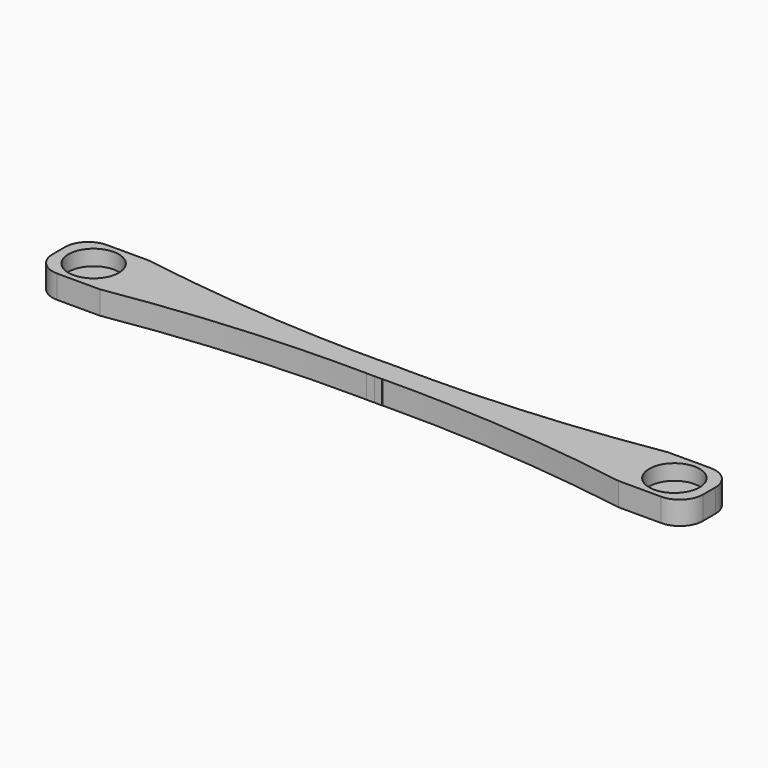
from build123d import *

# Parameters (mm, degrees)
BOX126_W                          = 90
BOX126_H                          = 9
BOX126_DEPTH                      = 4
BOX125_W                          = 40
BOX125_H                          = 10
BOX125_DEPTH                      = 10
CYLINDER211_R                     = 3.25
CYLINDER211_DEPTH                 = 3.5
CYLINDER212_R                     = 0.6
CYLINDER212_DEPTH                 = 9.5
CYLINDER210_R                     = 0.6
CYLINDER210_DEPTH                 = 9.5
CYLINDER209_R                     = 3.25
CYLINDER209_DEPTH                 = 3.5
PAD016_DEPTH                      = 4
FILLET087_R                       = 3
PART_MIRRORING004_PLACEMENT_ANGLE = 180
BOX123_W                          = 40
BOX123_H                          = 10
BOX123_DEPTH                      = 10
CYLINDER205_R                     = 3.25
CYLINDER205_DEPTH                 = 3.5
CYLINDER208_R                     = 0.6
CYLINDER208_DEPTH                 = 9.5
CYLINDER206_R                     = 0.6
CYLINDER206_DEPTH                 = 9.5
CYLINDER207_R                     = 3.25
CYLINDER207_DEPTH                 = 3.5
PAD017_DEPTH                      = 4
FILLET086_R                       = 3


with BuildPart() as obj1:
    # Box126 → Box126 (new body)
    with BuildSketch(Plane(origin=(-63, -27.5, -41), x_dir=(1, 0, 0), z_dir=(0, 0, 1))):
        with Locations((45, 4.5)):
            Rectangle(BOX126_W, BOX126_H)
    extrude(amount=BOX126_DEPTH)


with BuildPart() as obj2:
    # Box125 → Box125 (new body)
    with BuildSketch(Plane(origin=(-14, -72, -42), x_dir=(1, 0, 0), z_dir=(0, 0, 1))):
        with Locations((20, 5)):
            Rectangle(BOX125_W, BOX125_H)
    extrude(amount=BOX125_DEPTH)


with BuildPart() as zylinder211:
    # Cylinder211 → Cylinder211 (new body)
    with BuildSketch(Plane(origin=(-52.5, 23, -36), x_dir=(1, 0, 0), z_dir=(0, 0, 1))):
        Circle(CYLINDER211_R)
    extrude(amount=CYLINDER211_DEPTH)


with BuildPart() as zylinder212:
    # Cylinder212 → Cylinder212 (new body)
    with BuildSketch(Plane(origin=(16.5, 23, -39), x_dir=(1, 0, 0), z_dir=(0, 0, 1))):
        Circle(CYLINDER212_R)
    extrude(amount=CYLINDER212_DEPTH)


with BuildPart() as zylinder210:
    # Cylinder210 → Cylinder210 (new body)
    with BuildSketch(Plane(origin=(-52.5, 23, -39), x_dir=(1, 0, 0), z_dir=(0, 0, 1))):
        Circle(CYLINDER210_R)
    extrude(amount=CYLINDER210_DEPTH)


with BuildPart() as fusion135:
    # Cylinder209 → Cylinder209 (new body)
    with BuildSketch(Plane(origin=(16.5, 23, -36), x_dir=(1, 0, 0), z_dir=(0, 0, 1))):
        Circle(CYLINDER209_R)
    extrude(amount=CYLINDER209_DEPTH)

    # Fusion135: union Zylinder211, Zylinder212, Zylinder210
    add(zylinder211.part)
    add(zylinder212.part)
    add(zylinder210.part)


with BuildPart() as cut090:
    # Sketch017 → Pad016 (new body)
    with BuildSketch(Plane.XY):
        with BuildLine():
            add(Edge.make_bspline(
                [(-48.5, 19), (-18, 24), (12.5, 19)],
                knots=[0, 0, 0, 1, 1, 1], degree=2))
            Line((-48.5, 19), (-57, 19))
            Line((-57, 19), (-57, 27))
            Line((-57, 27), (-48.5, 27))
            add(Edge.make_bspline(
                [(-48.5, 27), (-18, 22), (12.5, 27)],
                knots=[0, 0, 0, 1, 1, 1], degree=2))
            Line((12.5, 27), (21, 27))
            Line((21, 27), (21, 19))
            Line((21, 19), (12.5, 19))
        make_face()
    extrude(amount=PAD016_DEPTH)


with BuildPart() as cut090_1:
    # Body007 placement: moved
    add(cut090.part.moved(Location((0, 0, -38))))

    # Cut088: cut Fusion135
    add(fusion135.part, mode=Mode.SUBTRACT)

    # Fillet087
    fillet087_edges = [cut090_1.edges().sort_by_distance(p)[0] for p in [
        (-57, 19, -36),
        (21, 19, -36),
        (-57, 27, -36),
        (21, 27, -36),
    ]]
    fillet(fillet087_edges, radius=FILLET087_R)


with BuildPart() as cut090_2:
    # Fillet087 placement: moved
    add(cut090_1.part.moved(Location((0, -90, 0))))

    # Cut090: cut obj2
    add(obj2.part, mode=Mode.SUBTRACT)


with BuildPart() as cut090_3:
    # Cut090 placement: moved
    add(cut090_2.part.moved(Location((-5, 35, 0))))


with BuildPart() as part_mirroring004:
    # Part__Mirroring004: instance of Cut090
    add(cut090_3.part.mirror(Plane(origin=(-40.5, -8e-06, -36), x_dir=(1, 0, 0), z_dir=(0, 1, 0))))


with BuildPart() as part_mirroring004_1:
    # Part__Mirroring004 placement: moved
    add(part_mirroring004.part.moved(Location((-38, 9, 0))).rotate(Axis((-38, 9, 0), (0, 0, 1)), PART_MIRRORING004_PLACEMENT_ANGLE))


with BuildPart() as obj3:
    # Box123 → Box123 (new body)
    with BuildSketch(Plane(origin=(-14, -72, -42), x_dir=(1, 0, 0), z_dir=(0, 0, 1))):
        with Locations((20, 5)):
            Rectangle(BOX123_W, BOX123_H)
    extrude(amount=BOX123_DEPTH)


with BuildPart() as zylinder205:
    # Cylinder205 → Cylinder205 (new body)
    with BuildSketch(Plane(origin=(-52.5, 23, -36), x_dir=(1, 0, 0), z_dir=(0, 0, 1))):
        Circle(CYLINDER205_R)
    extrude(amount=CYLINDER205_DEPTH)


with BuildPart() as zylinder208:
    # Cylinder208 → Cylinder208 (new body)
    with BuildSketch(Plane(origin=(16.5, 23, -39), x_dir=(1, 0, 0), z_dir=(0, 0, 1))):
        Circle(CYLINDER208_R)
    extrude(amount=CYLINDER208_DEPTH)


with BuildPart() as zylinder206:
    # Cylinder206 → Cylinder206 (new body)
    with BuildSketch(Plane(origin=(-52.5, 23, -39), x_dir=(1, 0, 0), z_dir=(0, 0, 1))):
        Circle(CYLINDER206_R)
    extrude(amount=CYLINDER206_DEPTH)


with BuildPart() as fusion134:
    # Cylinder207 → Cylinder207 (new body)
    with BuildSketch(Plane(origin=(16.5, 23, -36), x_dir=(1, 0, 0), z_dir=(0, 0, 1))):
        Circle(CYLINDER207_R)
    extrude(amount=CYLINDER207_DEPTH)

    # Fusion134: union Zylinder205, Zylinder208, Zylinder206
    add(zylinder205.part)
    add(zylinder208.part)
    add(zylinder206.part)


with BuildPart() as bar_medium_long:
    # Sketch016 → Pad017 (new body)
    with BuildSketch(Plane.XY):
        with BuildLine():
            add(Edge.make_bspline(
                [(-48.5, 19), (-18, 24), (12.5, 19)],
                knots=[0, 0, 0, 1, 1, 1], degree=2))
            Line((-48.5, 19), (-57, 19))
            Line((-57, 19), (-57, 27))
            Line((-57, 27), (-48.5, 27))
            add(Edge.make_bspline(
                [(-48.5, 27), (-18, 22), (12.5, 27)],
                knots=[0, 0, 0, 1, 1, 1], degree=2))
            Line((12.5, 27), (21, 27))
            Line((21, 27), (21, 19))
            Line((21, 19), (12.5, 19))
        make_face()
    extrude(amount=PAD017_DEPTH)


with BuildPart() as bar_medium_long_1:
    # Body008 placement: moved
    add(bar_medium_long.part.moved(Location((0, 0, -38))))

    # Cut086: cut Fusion134
    add(fusion134.part, mode=Mode.SUBTRACT)

    # Fillet086
    fillet086_edges = [bar_medium_long_1.edges().sort_by_distance(p)[0] for p in [
        (-57, 19, -36),
        (21, 19, -36),
        (-57, 27, -36),
        (21, 27, -36),
    ]]
    fillet(fillet086_edges, radius=FILLET086_R)


with BuildPart() as bar_medium_long_2:
    # Fillet086 placement: moved
    add(bar_medium_long_1.part.moved(Location((0, -90, 0))))

    # Cut087: cut obj3
    add(obj3.part, mode=Mode.SUBTRACT)


with BuildPart() as bar_medium_long_3:
    # Cut087 placement: moved
    add(bar_medium_long_2.part.moved(Location((-3, 44, 0))))

    # Fusion136: union Part__Mirroring004
    add(part_mirroring004_1.part)

    # Cut091: cut obj1
    add(obj1.part, mode=Mode.SUBTRACT)


solid = bar_medium_long_3.part
